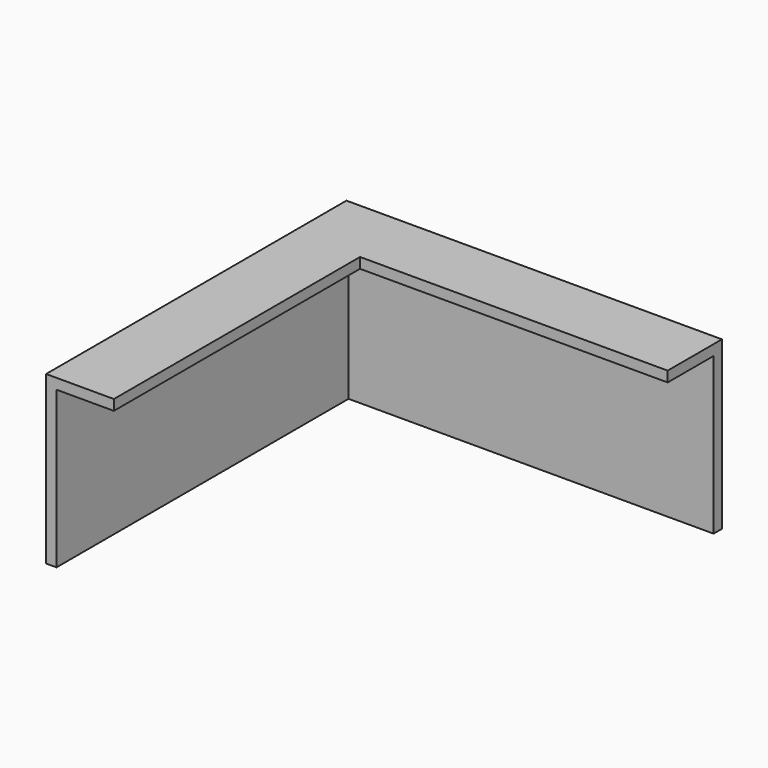
from build123d import *

# Parameters (mm, degrees)
F0_W     = 2
F0_H     = 2
F0_W_2   = 59
F0_H_2   = 11
F0_W_3   = 11
F0_H_3   = 59
F1_DEPTH = 2
F2_DEPTH = 30


with BuildPart() as f1:
    # F0 (on Top) → F1 (new body)
    with BuildSketch(Plane.XY):
        with Locations((-1, 1)):
            Rectangle(F0_W, F0_H)
        Polygon((0, 2), (0, 0), (11, 0), (70, 0), (70, 2), align=None)
        with Locations((40.5, -5.5)):
            Rectangle(F0_W_2, F0_H_2)
        with Locations((5.5, -40.5)):
            Rectangle(F0_W_3, F0_H_3)
        Polygon((0, -11), (0, 0), (-2, 0), (-2, -70), (0, -70), align=None)
        with Locations((5.5, -5.5)):
            Rectangle(F0_W_3, F0_H_2)
    extrude(amount=F1_DEPTH)

    # F0 (on Top) → F2 (join)
    with BuildSketch(Plane.XY):
        Polygon((0, 2), (0, 0), (11, 0), (70, 0), (70, 2), align=None)
        Polygon((0, -11), (0, 0), (-2, 0), (-2, -70), (0, -70), align=None)
        with Locations((-1, 1)):
            Rectangle(F0_W, F0_H)
    extrude(amount=-F2_DEPTH)


solid = f1.part
